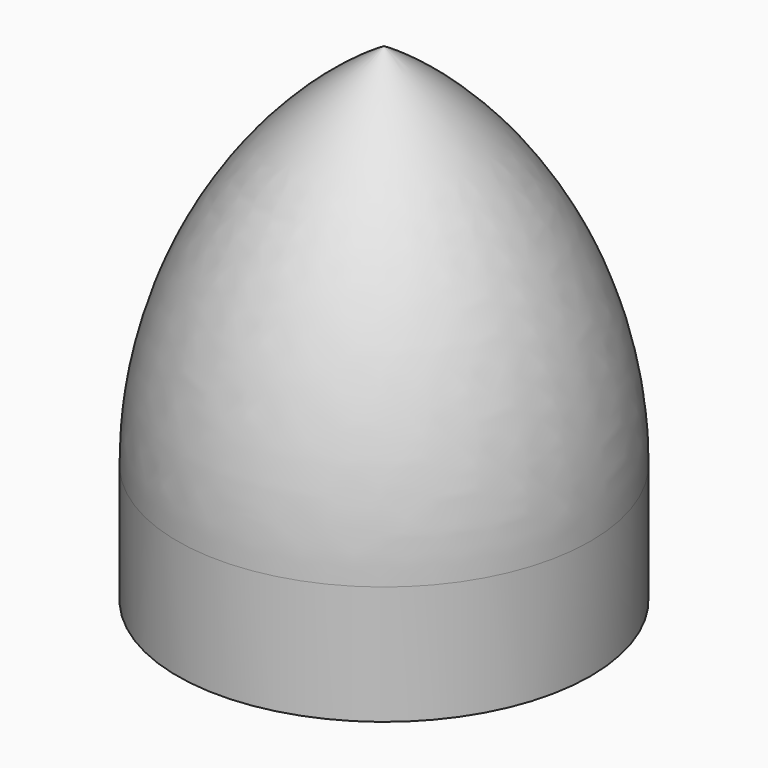
from build123d import *


with BuildPart() as f1:
    # F0 (on Front) → F1 (revolve)
    with BuildSketch(Plane.XZ):
        with BuildLine():
            ThreePointArc((0, 101.444424), (31.160664, 68.732139), (42.5, 25))
            Line((42.5, 25), (42.5, 0))
            Line((42.5, 0), (43.5, 0))
            Line((43.5, 0), (43.5, 25))
            ThreePointArc((43.5, 25), (31.883563, 69.488763), (0, 102.619263))
            Line((0, 102.619263), (0, 101.444424))
        make_face()
    revolve(axis=Axis((0, 0, 50.722212), (0, 0, 1)))


solid = f1.part
